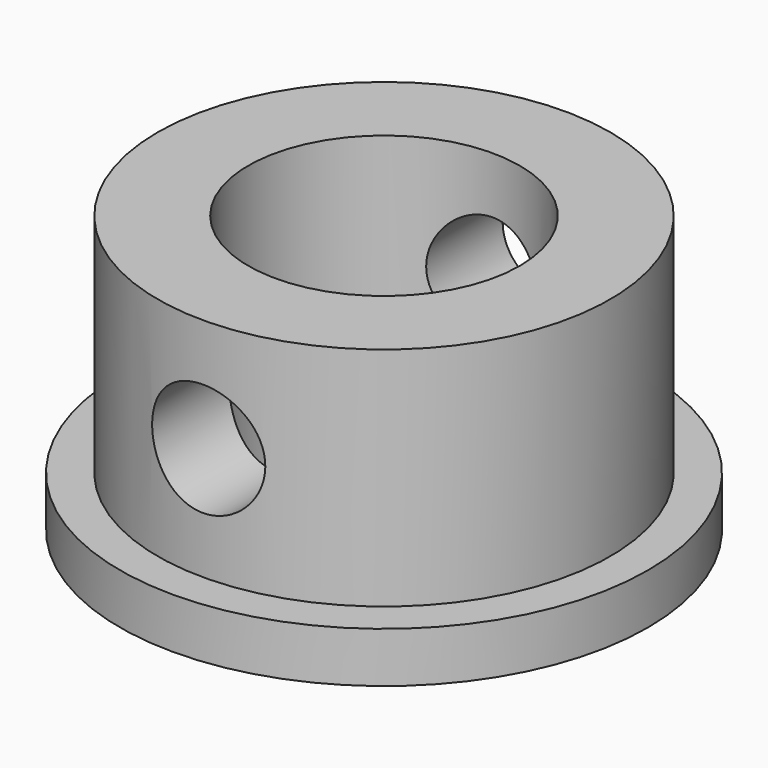
from build123d import *

# Parameters (mm, degrees)
F2_R     = 2.38125
F3_DEPTH = 12.7
F4_R     = 5.715
F5_DEPTH = 12.7


with BuildPart() as f1:
    # F0 (on Front) → F1 (revolve)
    with BuildSketch(Plane.XZ):
        Polygon((0, -1.2290018785), (0, 11.6460951906), (-9.525, 11.6460951906), (-9.525, 2.1210951906), (-11.1125, 2.1210951906), (-11.1125, 0), (-9.525, -0.637396297), (-4.7625, -1.2290018785), align=None)
    revolve(axis=Axis((0, 0, 5.2085466561), (0, 0, -1)))

    # F2 (on Front) → F3 (cut, symmetric)
    with BuildSketch(Plane.XZ):
        with Locations((0, 6.8835951906)):
            Circle(F2_R)
    extrude(amount=F3_DEPTH, both=True, mode=Mode.SUBTRACT)

    # F4 (on Top) → F5 (cut, symmetric)
    with BuildSketch(Plane.XY):
        Circle(F4_R)
    extrude(amount=F5_DEPTH, both=True, mode=Mode.SUBTRACT)


solid = f1.part
